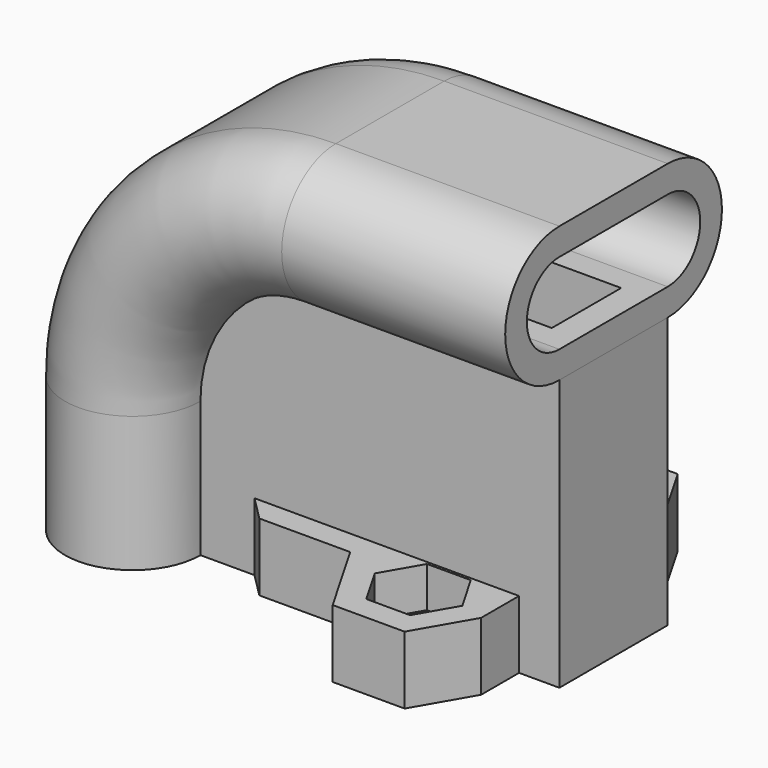
from build123d import *

# Parameters (mm, degrees)
SKETCH_W          = 26.5
SKETCH_H          = 10
SKETCH_W_2        = 24
SKETCH_H_2        = 6.4
PAD_DEPTH         = 20
POCKET_DEPTH      = 5.001
POCKET_DEPTH_BACK = 5.001
SKETCH004_R       = 1.65
PAD001_DEPTH      = 5
SKETCH005_W       = 3.1
SKETCH005_H       = 10
POCKET001_DEPTH   = 3.1
FILLET_R          = 1.2
SKETCH006_W       = 24
SKETCH006_H       = 6.4
POCKET002_DEPTH   = 22
POCKET003_DEPTH   = 3
CHAMFER_SIZE      = 1.79


with BuildPart() as part:
    # Sketch → Pad (new body)
    with BuildSketch(Plane.XY):
        with Locations((18.25, 0)):
            Rectangle(SKETCH_W, SKETCH_H)
        with Locations((17.5, 0)):
            Rectangle(SKETCH_W_2, SKETCH_H_2, mode=Mode.SUBTRACT)
    extrude(amount=PAD_DEPTH)

    # Sketch003 → Pocket (cut, two sides)
    with BuildSketch(Plane.XZ) as pocket_sk:
        with BuildLine():
            Line((5, 0), (5, 10))
            ThreePointArc((15, 20), (7.928932, 17.071068), (5, 10))
            Line((15, 20), (35.5, 20))
            Line((35.5, 20), (35.5, 25))
            Line((35.5, 25), (0, 25))
            Line((0, 25), (0, 0))
            Line((0, 0), (5, 0))
        make_face()
    extrude(amount=-POCKET_DEPTH, mode=Mode.SUBTRACT)
    extrude(pocket_sk.sketch, amount=POCKET_DEPTH_BACK, mode=Mode.SUBTRACT)

    # AdditivePipe: sweep along a path in Sketch002
    with BuildLine(Plane.XZ) as additivepipe_path:
        Line((31.5, 25), (15.000006, 25))
        ThreePointArc((15.000006, 25), (4.393402, 20.606602), (0, 10))
        Line((0, 10), (0, 0))
    # Sketch001 (on Face9 of Pad) → AdditivePipe (sweep)
    with BuildSketch(Plane(origin=(0, 0, 0), x_dir=(1, 0, 0), z_dir=(0, 0, -1))):
        with BuildLine():
            ThreePointArc((5, 5), (0, 10), (-5, 5))
            Line((-5, 5), (-5, -5))
            ThreePointArc((-5, -5), (0, -10), (5, -5))
            Line((5, 5), (5, -5))
        make_face()
        with BuildLine():
            ThreePointArc((3, 5), (0, 8), (-3, 5))
            Line((-3, 5), (-3, -5))
            ThreePointArc((-3, -5), (0, -8), (3, -5))
            Line((3, 5), (3, -5))
        make_face(mode=Mode.SUBTRACT)
    sweep(path=additivepipe_path.line)

    # Sketch004 (on Face2 of AdditivePipe) → Pad001 (join)
    with BuildSketch(Plane(origin=(0, 0, 0), x_dir=(1, 0, 0), z_dir=(0, 0, -1))):
        Polygon((28.522947, 8.5), (26.155811, 12.6), (20.844189, 12.6), (17.495557, 6.8), (9, 6.8), (9, 5), (28.522947, 5), align=None)
        with Locations((23.5, 8)):
            Circle(SKETCH004_R, mode=Mode.SUBTRACT)
    pad001 = extrude(amount=-PAD001_DEPTH)

    # Mirrored: Pad001 across XZ
    add(pad001.mirror(Plane.XZ))

    # Sketch005 (on Face2 of Mirrored) → Pocket001 (cut)
    with BuildSketch(Plane(origin=(0, 0, 0), x_dir=(1, 0, 0), z_dir=(0, 0, -1))):
        with Locations((13.05, 0)):
            Rectangle(SKETCH005_W, SKETCH005_H)
        with Locations((22.55, 0)):
            Rectangle(SKETCH005_W, SKETCH005_H)
    extrude(amount=-POCKET001_DEPTH, mode=Mode.SUBTRACT)

    # Fillet
    fillet_edges = [part.edges().sort_by_distance(p)[0] for p in [
        (11.5, 4.1, 3.1),
        (11.5, -4.1, 3.1),
        (21, -4.1, 3.1),
        (21, 4.1, 3.1),
        (14.6, 4.1, 3.1),
        (14.6, -4.1, 3.1),
        (24.1, -4.1, 3.1),
        (24.1, 4.1, 3.1),
    ]]
    fillet(fillet_edges, radius=FILLET_R)

    # Sketch006 (on Face51 of Fillet) → Pocket002 (cut)
    with BuildSketch(Plane(origin=(0, 0, 0), x_dir=(1, 0, 0), z_dir=(0, 0, -1))):
        with Locations((17.5, 0)):
            Rectangle(SKETCH006_W, SKETCH006_H)
    extrude(amount=-POCKET002_DEPTH, mode=Mode.SUBTRACT)

    # Sketch007 (on Face66 of Pocket002) → Pocket003 (cut)
    with BuildSketch(Plane.XY.offset(5)):
        Polygon((26.733162, -8), (25.116581, -5.2), (21.883419, -5.2), (20.266838, -8), (21.883419, -10.8), (25.116581, -10.8), align=None)
        Polygon((25.116581, 5.2), (26.733162, 8), (25.116581, 10.8), (21.883419, 10.8), (20.266838, 8), (21.883419, 5.2), align=None)
    extrude(amount=-POCKET003_DEPTH, mode=Mode.SUBTRACT)

    # Chamfer
    chamfer_edges = [part.edges().sort_by_distance(p)[0] for p in [
        (9, -6.8, 2.5),
        (9, 6.8, 2.5),
    ]]
    chamfer(chamfer_edges, length=CHAMFER_SIZE)


solid = part.part
